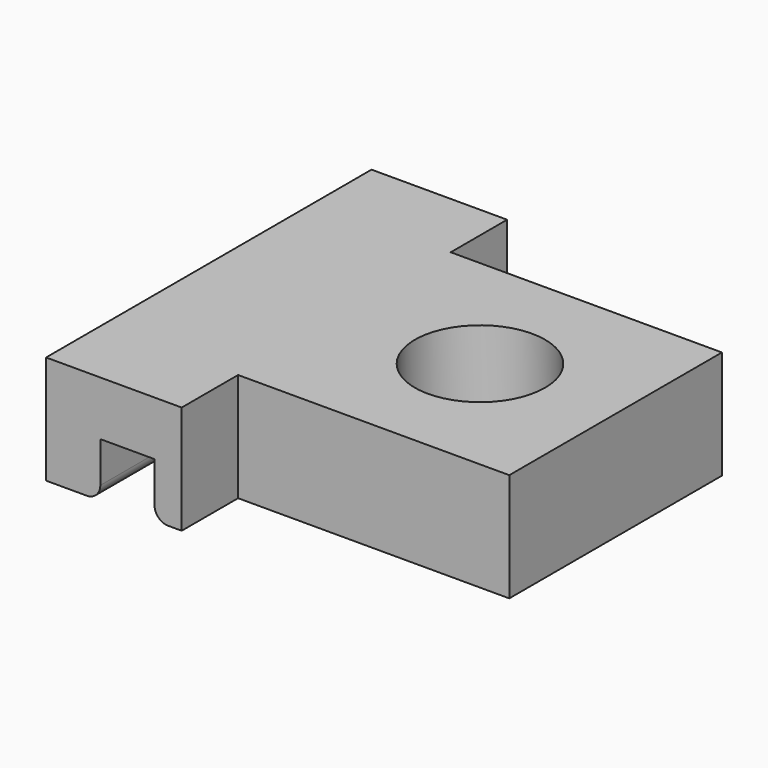
from build123d import *

# Parameters (mm, degrees)
F1_DEPTH      = 7.5
F1_DEPTH_BACK = 7.5
F2_R          = 2.4
F3_DEPTH      = 4.001
F4_W          = 10
F4_H          = 2.6
F5_DEPTH      = 4.001
F6_R          = 0.5


with BuildPart() as f1:
    # F0 (on Front) → F1 (new body, two sides)
    with BuildSketch(Plane.XZ) as f1_sk:
        Polygon((-11, 0), (0, 0), (0, 4), (-15, 4), (-15, 0), (-13, 0), (-13, 2), (-11, 2), align=None)
    extrude(amount=F1_DEPTH)
    extrude(f1_sk.sketch, amount=-F1_DEPTH_BACK)

    # F2 (on face) → F3 (cut, through all)
    with BuildSketch(Plane.XY.offset(4)):
        with Locations((-5, 0)):
            Circle(F2_R)
    extrude(amount=-F3_DEPTH, mode=Mode.SUBTRACT)

    # F4 (on face) → F5 (cut, through all)
    with BuildSketch(Plane.XY.offset(4)):
        with Locations((-5, 6.2)):
            Rectangle(F4_W, F4_H)
        with Locations((-5, -6.2)):
            Rectangle(F4_W, F4_H)
    extrude(amount=-F5_DEPTH, mode=Mode.SUBTRACT)

    # F6
    f6_edges = [f1.edges().sort_by_distance(p)[0] for p in [
        (-13, 0, 0),
        (-11, 0, 0),
    ]]
    fillet(f6_edges, radius=F6_R)


solid = f1.part
